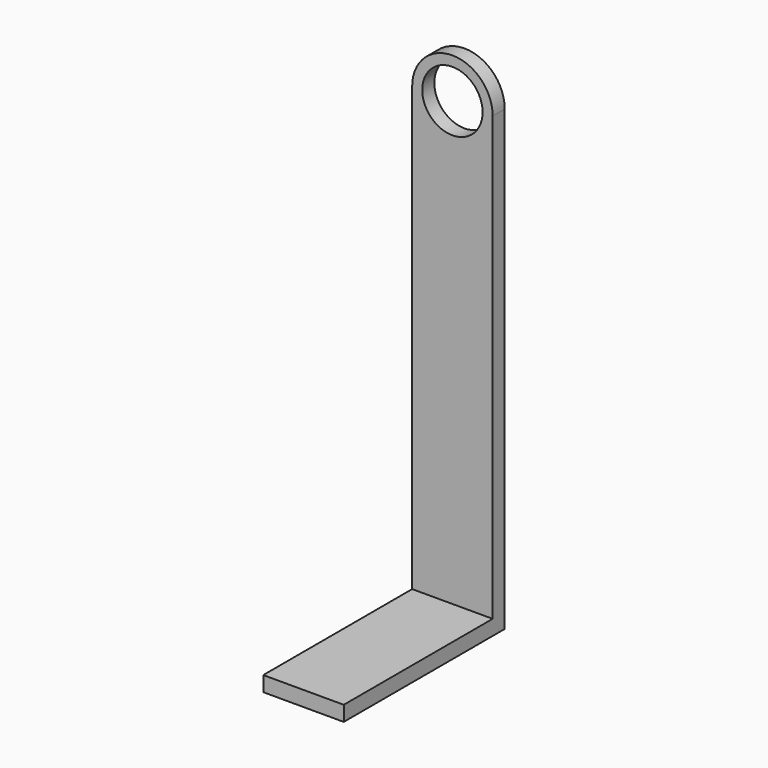
from build123d import *

# Parameters (mm, degrees)
F0_R     = 6
F1_DEPTH = 3
F2_W     = 16
F2_H     = 3
F3_DEPTH = 40


with BuildPart() as f1:
    # F0 (on Front) → F1 (new body)
    with BuildSketch(Plane.XZ):
        with BuildLine():
            Line((-8, 0), (-8, -91))
            Line((-8, -91), (8, -91))
            Line((8, -91), (8, 0))
            ThreePointArc((8, 0), (0, 8), (-8, 0))
        make_face()
        Circle(F0_R, mode=Mode.SUBTRACT)
    extrude(amount=F1_DEPTH)

    # F2 (on Front) → F3 (join)
    with BuildSketch(Plane.XZ):
        with Locations((0, -89.5)):
            Rectangle(F2_W, F2_H)
    extrude(amount=F3_DEPTH)


solid = f1.part
